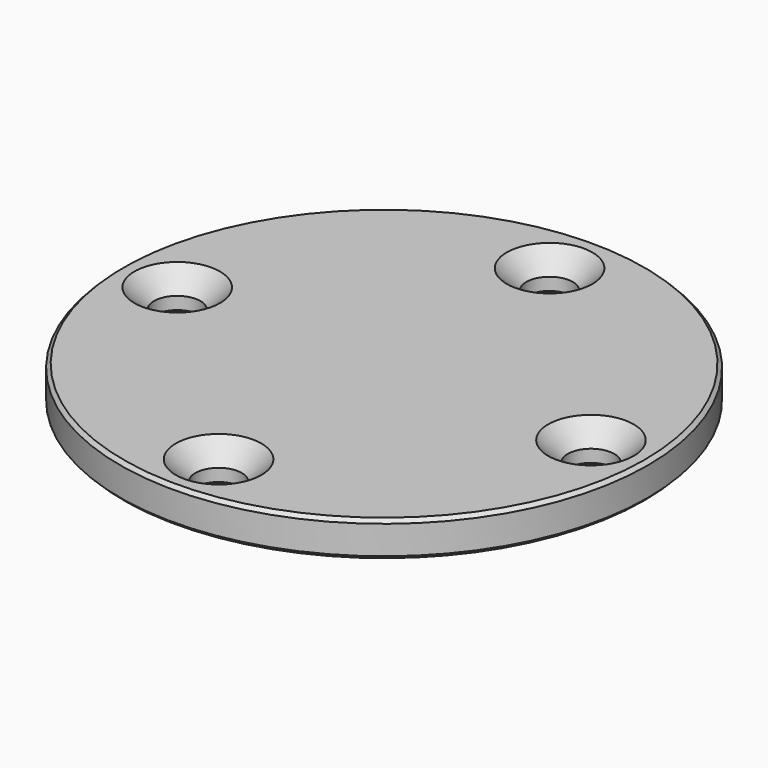
from build123d import *

# Parameters (mm, degrees)
F0_R     = 37
F0_R_2   = 3.25
F1_DEPTH = 5
F2_SIZE  = 2.75
F3_SIZE  = 0.5
F4_R     = 19
F5_DEPTH = 2
F6_SIZE  = 0.5


with BuildPart() as f1:
    # F0 (on Top) → F1 (new body)
    with BuildSketch(Plane.XY):
        Circle(F0_R)
        with Locations((0, -29)):
            Circle(F0_R_2, mode=Mode.SUBTRACT)
        with Locations((-29, 0)):
            Circle(F0_R_2, mode=Mode.SUBTRACT)
        with Locations((29, 0)):
            Circle(F0_R_2, mode=Mode.SUBTRACT)
        with Locations((0, 29)):
            Circle(F0_R_2, mode=Mode.SUBTRACT)
    extrude(amount=F1_DEPTH)

    # F2
    f2_edges = [f1.edges().sort_by_distance(p)[0] for p in [
        (-3.25, -29, 5),
        (-32.25, 0, 5),
        (-3.25, 29, 5),
        (25.75, 0, 5),
    ]]
    chamfer(f2_edges, length=F2_SIZE)

    # F3
    f3_edges = [f1.edges().sort_by_distance(p)[0] for p in [
        (37, 0, 2.5),
        (-37, 0, 0),
        (-37, 0, 5),
        (-3.25, -29, 0),
        (-32.25, 0, 0),
        (-3.25, 29, 0),
        (25.75, 0, 0),
    ]]
    chamfer(f3_edges, length=F3_SIZE)

    # F4 (on face) → F5 (cut)
    with BuildSketch(Plane(origin=(0, 0, 0), x_dir=(1, 0, 0), z_dir=(0, 0, -1))):
        Circle(F4_R)
    extrude(amount=-F5_DEPTH, mode=Mode.SUBTRACT)

    # F6
    f6_edges = [f1.edges().sort_by_distance(p)[0] for p in [
        (19, 0, 1),
        (-19, 0, 0),
        (-19, 0, 2),
    ]]
    chamfer(f6_edges, length=F6_SIZE)


solid = f1.part
